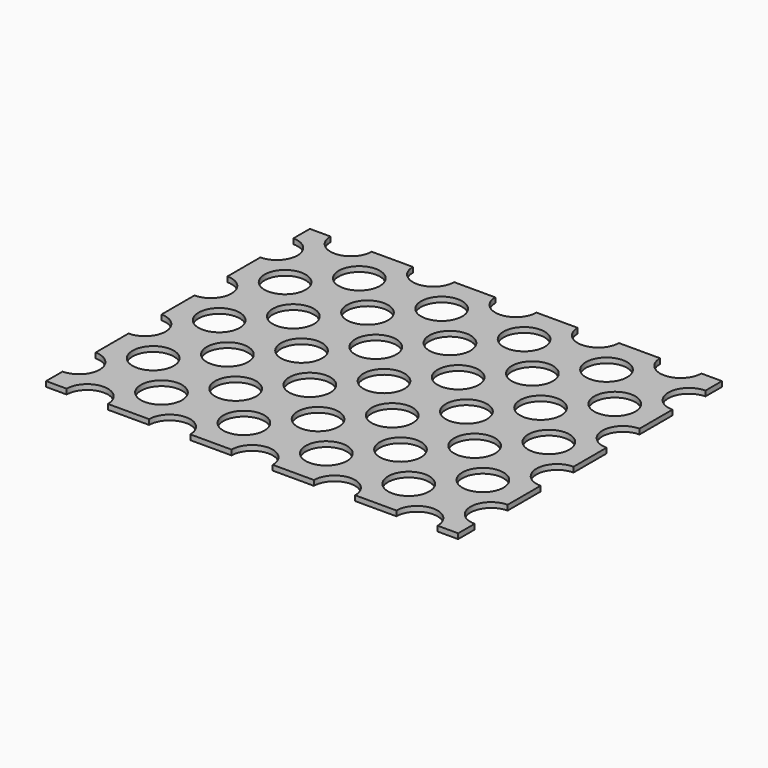
from build123d import *

# Parameters (mm, degrees)
F0_R     = 6.35
F1_DEPTH = 1.5875


with BuildPart() as f1:
    # F0 (on Top) → F1 (new body)
    with BuildSketch(Plane.XY):
        with BuildLine():
            ThreePointArc((44.45, -50.8), (50.8, -44.45), (57.15, -50.8))
            Line((57.15, -50.8), (63.5, -50.8))
            Line((63.5, -50.8), (63.5, -44.45))
            ThreePointArc((63.5, -44.45), (57.15, -38.1), (63.5, -31.75))
            Line((63.5, -31.75), (63.5, -19.05))
            ThreePointArc((63.5, -19.05), (57.15, -12.7), (63.5, -6.35))
            Line((63.5, -6.35), (63.5, 6.35))
            ThreePointArc((63.5, 6.35), (57.15, 12.7), (63.5, 19.05))
            Line((63.5, 19.05), (63.5, 31.75))
            ThreePointArc((63.5, 31.75), (57.15, 38.1), (63.5, 44.45))
            Line((63.5, 44.45), (63.5, 50.8))
            Line((63.5, 50.8), (57.15, 50.8))
            ThreePointArc((57.15, 50.8), (50.8, 44.45), (44.45, 50.8))
            Line((44.45, 50.8), (31.75, 50.8))
            ThreePointArc((31.75, 50.8), (25.4, 44.45), (19.05, 50.8))
            Line((19.05, 50.8), (6.35, 50.8))
            ThreePointArc((6.35, 50.8), (0, 44.45), (-6.35, 50.8))
            Line((-6.35, 50.8), (-19.05, 50.8))
            ThreePointArc((-19.05, 50.8), (-25.4, 44.45), (-31.75, 50.8))
            Line((-31.75, 50.8), (-44.45, 50.8))
            ThreePointArc((-44.45, 50.8), (-50.8, 44.45), (-57.15, 50.8))
            Line((-57.15, 50.8), (-63.5, 50.8))
            Line((-63.5, 50.8), (-63.5, 44.45))
            ThreePointArc((-63.5, 44.45), (-59.0098719395, 42.5901280605), (-57.15, 38.1))
            ThreePointArc((-57.15, 38.1), (-59.0098719395, 33.6098719395), (-63.5, 31.75))
            Line((-63.5, 31.75), (-63.5, 19.05))
            ThreePointArc((-63.5, 19.05), (-59.0098719395, 17.1901280605), (-57.15, 12.7))
            ThreePointArc((-57.15, 12.7), (-59.0098719395, 8.2098719395), (-63.5, 6.35))
            Line((-63.5, 6.35), (-63.5, -6.35))
            ThreePointArc((-63.5, -6.35), (-59.0098719395, -8.2098719395), (-57.15, -12.7))
            ThreePointArc((-57.15, -12.7), (-59.0098719395, -17.1901280605), (-63.5, -19.05))
            Line((-63.5, -19.05), (-63.5, -31.75))
            ThreePointArc((-63.5, -31.75), (-59.0098719395, -33.6098719395), (-57.15, -38.1))
            ThreePointArc((-57.15, -38.1), (-59.0098719395, -42.5901280605), (-63.5, -44.45))
            Line((-63.5, -44.45), (-63.5, -50.8))
            Line((-63.5, -50.8), (-57.15, -50.8))
            ThreePointArc((-57.15, -50.8), (-50.8, -44.45), (-44.45, -50.8))
            Line((-44.45, -50.8), (-31.75, -50.8))
            ThreePointArc((-31.75, -50.8), (-25.4, -44.45), (-19.05, -50.8))
            Line((-19.05, -50.8), (-6.35, -50.8))
            ThreePointArc((-6.35, -50.8), (0, -44.45), (6.35, -50.8))
            Line((6.35, -50.8), (19.05, -50.8))
            ThreePointArc((19.05, -50.8), (25.4, -44.45), (31.75, -50.8))
            Line((31.75, -50.8), (44.45, -50.8))
        make_face()
        with Locations((-38.1, -38.1)):
            Circle(F0_R, mode=Mode.SUBTRACT)
        with Locations((-12.7, -38.1)):
            Circle(F0_R, mode=Mode.SUBTRACT)
        with Locations((-50.8, -25.4)):
            Circle(F0_R, mode=Mode.SUBTRACT)
        with Locations((-38.1, -12.7)):
            Circle(F0_R, mode=Mode.SUBTRACT)
        with Locations((-25.4, -25.4)):
            Circle(F0_R, mode=Mode.SUBTRACT)
        with Locations((-12.7, -12.7)):
            Circle(F0_R, mode=Mode.SUBTRACT)
        with Locations((12.7, -38.1)):
            Circle(F0_R, mode=Mode.SUBTRACT)
        with Locations((38.1, -38.1)):
            Circle(F0_R, mode=Mode.SUBTRACT)
        with Locations((0, -25.4)):
            Circle(F0_R, mode=Mode.SUBTRACT)
        with Locations((25.4, -25.4)):
            Circle(F0_R, mode=Mode.SUBTRACT)
        with Locations((12.7, -12.7)):
            Circle(F0_R, mode=Mode.SUBTRACT)
        with Locations((50.8, -25.4)):
            Circle(F0_R, mode=Mode.SUBTRACT)
        with Locations((38.1, -12.7)):
            Circle(F0_R, mode=Mode.SUBTRACT)
        with Locations((-50.8, 0)):
            Circle(F0_R, mode=Mode.SUBTRACT)
        with Locations((-38.1, 12.7)):
            Circle(F0_R, mode=Mode.SUBTRACT)
        with Locations((-50.8, 25.4)):
            Circle(F0_R, mode=Mode.SUBTRACT)
        with Locations((-25.4, 0)):
            Circle(F0_R, mode=Mode.SUBTRACT)
        with Locations((-12.7, 12.7)):
            Circle(F0_R, mode=Mode.SUBTRACT)
        with Locations((-25.4, 25.4)):
            Circle(F0_R, mode=Mode.SUBTRACT)
        with Locations((-38.1, 38.1)):
            Circle(F0_R, mode=Mode.SUBTRACT)
        with Locations((-12.7, 38.1)):
            Circle(F0_R, mode=Mode.SUBTRACT)
        Circle(F0_R, mode=Mode.SUBTRACT)
        with Locations((12.7, 12.7)):
            Circle(F0_R, mode=Mode.SUBTRACT)
        with Locations((25.4, 0)):
            Circle(F0_R, mode=Mode.SUBTRACT)
        with Locations((0, 25.4)):
            Circle(F0_R, mode=Mode.SUBTRACT)
        with Locations((25.4, 25.4)):
            Circle(F0_R, mode=Mode.SUBTRACT)
        with Locations((50.8, 0)):
            Circle(F0_R, mode=Mode.SUBTRACT)
        with Locations((38.1, 12.7)):
            Circle(F0_R, mode=Mode.SUBTRACT)
        with Locations((50.8, 25.4)):
            Circle(F0_R, mode=Mode.SUBTRACT)
        with Locations((12.7, 38.1)):
            Circle(F0_R, mode=Mode.SUBTRACT)
        with Locations((38.1, 38.1)):
            Circle(F0_R, mode=Mode.SUBTRACT)
    extrude(amount=F1_DEPTH)


solid = f1.part
